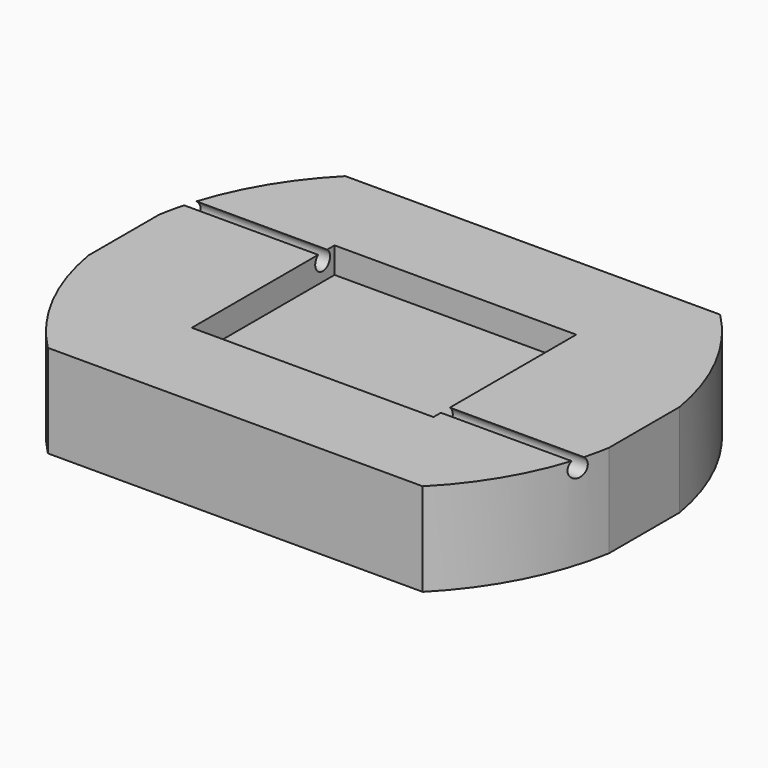
from build123d import *

# Parameters (mm, degrees)
CYLINDER008_R           = 7.1
CYLINDER008_DEPTH       = 10
BOX005_W                = 21
BOX005_H                = 17
BOX005_DEPTH            = 8
CYLINDER005_R           = 2.5
CYLINDER005_DEPTH       = 10
CYLINDER004_R           = 0.25
CYLINDER004_DEPTH       = 10
CYLINDER004_PITCH_ANGLE = 90
CYLINDER003_R           = 0.25
CYLINDER003_DEPTH       = 10
CYLINDER003_PITCH_ANGLE = 90
BOX002_W                = 6.5
BOX002_H                = 4.8
BOX002_DEPTH            = 1
BOX003_W                = 10
BOX003_H                = 12
BOX003_DEPTH            = 3
BOX001_W                = 14
BOX001_H                = 10
BOX001_DEPTH            = 7.25


with BuildPart() as cylinder008:
    # Cylinder008 → Cylinder008 (new body)
    with BuildSketch(Plane.XY.offset(-6.5)):
        Circle(CYLINDER008_R)
    extrude(amount=CYLINDER008_DEPTH)


with BuildPart() as cube005:
    # Box005 → Box005 (new body)
    with BuildSketch(Plane(origin=(-9, -7, -3.5), x_dir=(1, 0, 0), z_dir=(0, 0, 1))):
        with Locations((10.5, 8.5)):
            Rectangle(BOX005_W, BOX005_H)
    extrude(amount=BOX005_DEPTH)


with BuildPart() as cylinder005:
    # Cylinder005 → Cylinder005 (new body)
    with BuildSketch(Plane.XY.offset(0.5)):
        Circle(CYLINDER005_R)
    extrude(amount=CYLINDER005_DEPTH)


with BuildPart() as fusion004:
    # Sphere001 → Sphere001 (revolve)
    with BuildSketch(Plane.XZ):
        with BuildLine():
            ThreePointArc((0, -3.1), (3.1, 0), (0, 3.1))
            Line((0, 3.1), (0, -3.1))
        make_face()
    revolve(axis=Axis((0, 0, 0), (0, 0, 1)))

    # Fusion004: union Cylinder005
    add(cylinder005.part)


with BuildPart() as cylinder004:
    # Cylinder004 → Cylinder004 (new body)
    with BuildSketch(Plane.XY):
        Circle(CYLINDER004_R)
    extrude(amount=CYLINDER004_DEPTH)


with BuildPart() as cylinder004_1:
    # Cylinder004 pitch: moved
    add(cylinder004.part.rotate(Axis((0, 0, 0), (0, 1, 0)), CYLINDER004_PITCH_ANGLE))


with BuildPart() as cylinder004_2:
    # Cylinder004 placement: moved
    add(cylinder004_1.part.moved(Location((0, -2, -3.7))))


with BuildPart() as fusion:
    # Cylinder003 → Cylinder003 (new body)
    with BuildSketch(Plane.XY):
        Circle(CYLINDER003_R)
    extrude(amount=CYLINDER003_DEPTH)


with BuildPart() as fusion_1:
    # Cylinder003 pitch: moved
    add(fusion.part.rotate(Axis((0, 0, 0), (0, 1, 0)), CYLINDER003_PITCH_ANGLE))


with BuildPart() as fusion_2:
    # Cylinder003 placement: moved
    add(fusion_1.part.moved(Location((-11, 2, -3.7))))

    # Fusion: union Cylinder004
    add(cylinder004_2.part)


with BuildPart() as fusion001:
    # Box002 → Box002 (new body)
    with BuildSketch(Plane(origin=(-3.25, -2.4, -4.2), x_dir=(1, 0, 0), z_dir=(0, 0, 1))):
        with Locations((3.25, 2.4)):
            Rectangle(BOX002_W, BOX002_H)
    extrude(amount=BOX002_DEPTH)

    # Fusion001: union Fusion
    add(fusion_2.part)


with BuildPart() as cube003:
    # Box003 → Box003 (new body)
    with BuildSketch(Plane(origin=(-5, -6, -3.5), x_dir=(1, 0, 0), z_dir=(0, 0, 1))):
        with Locations((5, 6)):
            Rectangle(BOX003_W, BOX003_H)
    extrude(amount=BOX003_DEPTH)


with BuildPart() as switch_plate:
    # Box001 → Box001 (new body)
    with BuildSketch(Plane(origin=(-7, -5, -6), x_dir=(1, 0, 0), z_dir=(0, 0, 1))):
        with Locations((7, 5)):
            Rectangle(BOX001_W, BOX001_H)
    extrude(amount=BOX001_DEPTH)

    # Cut: cut Cube003
    add(cube003.part, mode=Mode.SUBTRACT)

    # Cut001: cut Fusion001
    add(fusion001.part, mode=Mode.SUBTRACT)

    # Cut003: cut Fusion004
    add(fusion004.part, mode=Mode.SUBTRACT)

    # Cut004: cut Cube005
    add(cube005.part, mode=Mode.SUBTRACT)

    # Common002: intersect Cylinder008
    add(cylinder008.part, mode=Mode.INTERSECT)


solid = switch_plate.part
